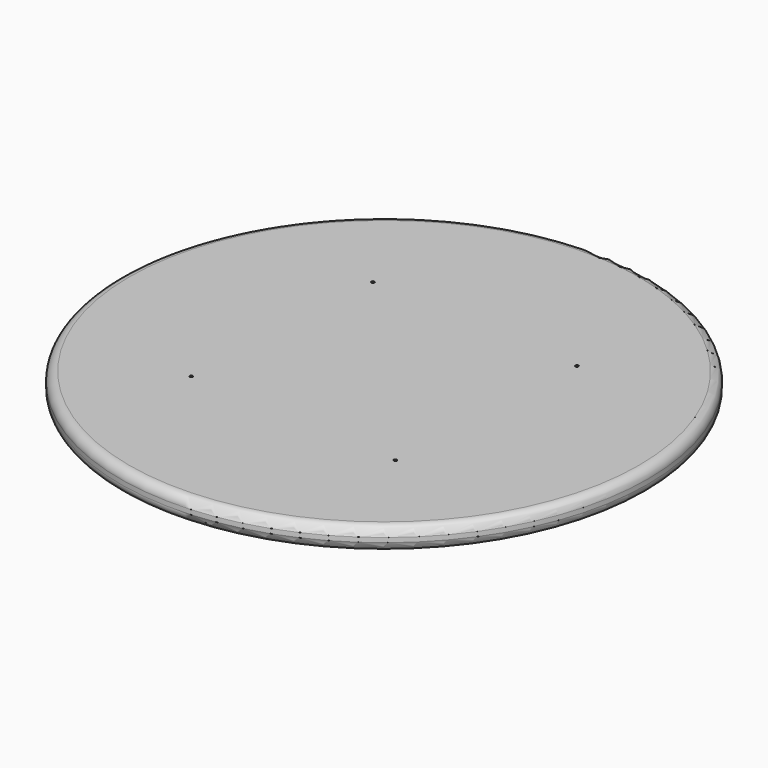
from build123d import *

# Parameters (mm, degrees)
F0_R     = 175
F1_DEPTH = 15
F2_R     = 6
F3_R     = 1
F4_DEPTH = 5


with BuildPart() as f1:
    # F0 (on Top) → F1 (new body)
    with BuildSketch(Plane.XY):
        Circle(F0_R)
    extrude(amount=F1_DEPTH)

    # F2
    f2_edges = [f1.edges().sort_by_distance(p)[0] for p in [
        (-175, 0, 15),
        (-175, 0, 0),
    ]]
    fillet(f2_edges, radius=F2_R)

    # F3 (on face) → F4 (cut)
    with BuildSketch(Plane.XY.offset(15)):
        with Locations((-66.905853, 74.320972)):
            Circle(F3_R)
        with Locations((-74.320972, -66.905853)):
            Circle(F3_R)
        with Locations((66.905853, -74.320972)):
            Circle(F3_R)
        with Locations((74.320972, 66.905853)):
            Circle(F3_R)
    extrude(amount=-F4_DEPTH, mode=Mode.SUBTRACT)


solid = f1.part
